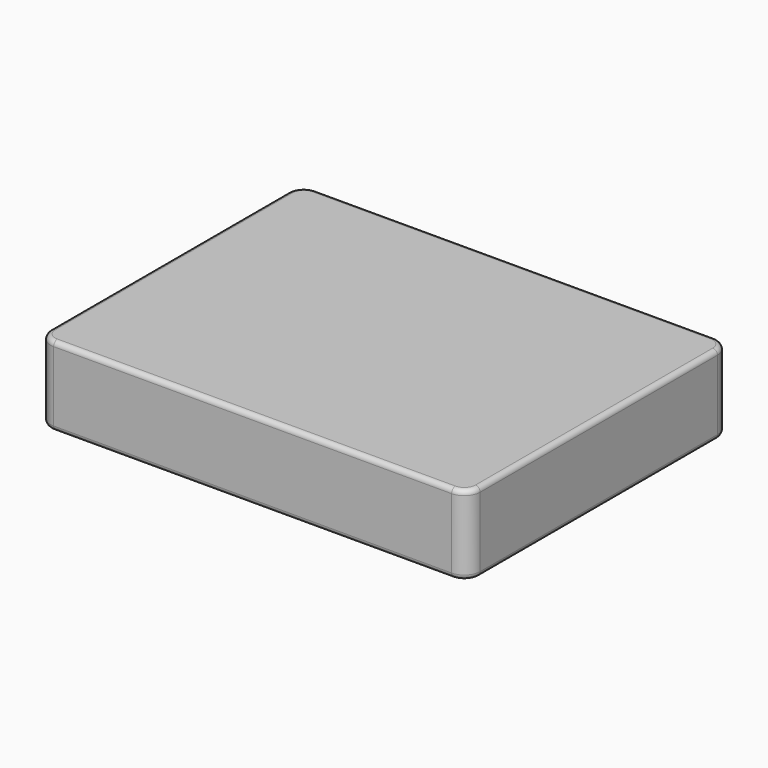
from build123d import *

# Parameters (mm, degrees)
F1_DEPTH = 50
F2_R     = 3


with BuildPart() as f1:
    # F0 (on Top) → F1 (new body)
    with BuildSketch(Plane.XY):
        with BuildLine():
            ThreePointArc((-135.4056, -93.471451), (-132.476668, -100.542518), (-125.4056, -103.471451))
            Line((-125.4056, -103.471451), (125.4056, -103.471451))
            ThreePointArc((125.4056, -103.471451), (132.476668, -100.542518), (135.4056, -93.471451))
            Line((135.4056, -93.471451), (135.4056, 93.471451))
            ThreePointArc((135.4056, 93.471451), (132.476668, 100.542518), (125.4056, 103.471451))
            Line((125.4056, 103.471451), (-125.4056, 103.471451))
            ThreePointArc((-125.4056, 103.471451), (-132.476668, 100.542518), (-135.4056, 93.471451))
            Line((-135.4056, 93.471451), (-135.4056, -93.471451))
        make_face()
    extrude(amount=F1_DEPTH)

    # F2
    f2_edges = [f1.edges().sort_by_distance(p)[0] for p in [
        (-135.4056, 0, 50),
        (-135.4056, 0, 0),
    ]]
    fillet(f2_edges, radius=F2_R)


solid = f1.part
